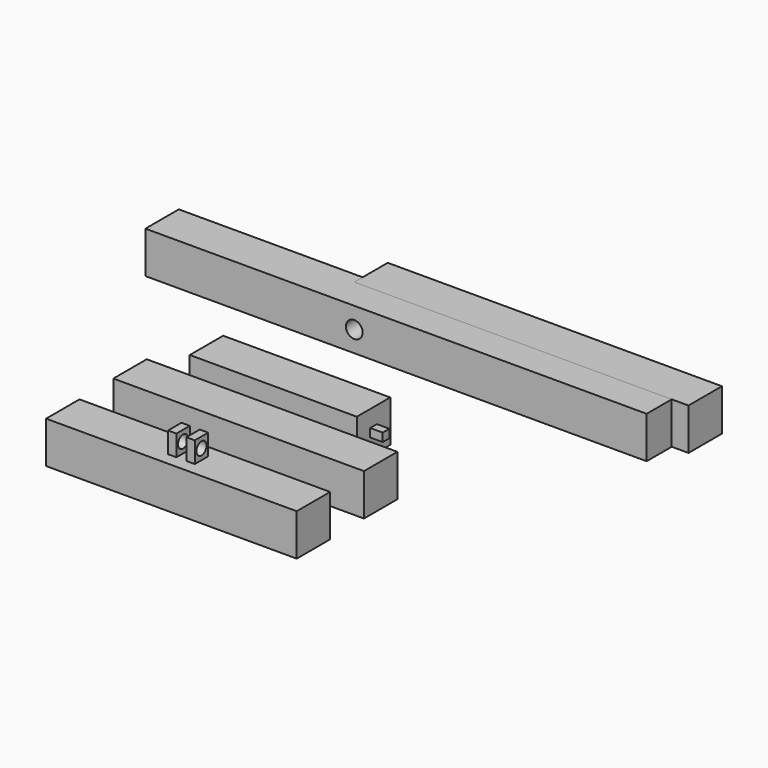
from build123d import *

# Parameters (mm, degrees)
F0_W      = 152.4
F0_H      = 12.7
F1_DEPTH  = 12.7
F2_W      = 76.2
F2_H      = 12.7
F3_DEPTH  = 12.7
F4_W      = 101.6
F4_H      = 12.7
F6_DEPTH  = 12.7
F5_W      = 50.8
F5_H      = 12.7
F8_D      = 5.08
F9_W      = 2.54
F9_H      = 2.54
F10_DEPTH = 3.81
F11_W     = 3.048
F11_H     = 3.048
F12_DEPTH = 6.477
F13_DEPTH = 6.477
F14_DEPTH = 6.477
F15_W     = 76.2
F15_H     = 12.7
F16_DEPTH = 12.7
F17_W     = 2.54
F17_H     = 5.08
F18_DEPTH = 6.35
F19_DEPTH = 6.35
F20_R     = 1.905
F21_DEPTH = 10.668


with BuildPart() as f1:
    # F0 (on Top) → F1 (new body)
    with BuildSketch(Plane.XY):
        with Locations((10.2690905333, 41.4107435818)):
            Rectangle(F0_W, F0_H)
    extrude(amount=F1_DEPTH)

    # F8 (through all)
    with Locations(Plane.XZ.offset(-35.0607435818)):
        with Locations((-2.4309094667, 6.35)):
            Hole(F8_D / 2)

    # F11 (on face) → F12 (cut)
    with BuildSketch(Plane.XY):
        with Locations((-21.4809094667, 41.4107435818)):
            Rectangle(F11_W, F11_H)
    extrude(amount=F12_DEPTH, mode=Mode.SUBTRACT)

    # F11 (on face) → F13 (cut)
    with BuildSketch(Plane.XY):
        with Locations((-15.1309094667, 41.4107435818)):
            Rectangle(F11_W, F11_H)
    extrude(amount=F13_DEPTH, mode=Mode.SUBTRACT)

    # F11 (on face) → F14 (cut)
    with BuildSketch(Plane.XY):
        with Locations((-27.8309094667, 41.4107435818)):
            Rectangle(F11_W, F11_H)
    extrude(amount=F14_DEPTH, mode=Mode.SUBTRACT)


with BuildPart() as f3:
    # F2 (on Top) → F3 (new body)
    with BuildSketch(Plane.XY):
        with Locations((14.3660753965, -23.5283830105)):
            Rectangle(F2_W, F2_H)
    extrude(amount=F3_DEPTH)


with BuildPart() as f6:
    # F4 (on Top) → F6 (new body)
    with BuildSketch(Plane.XY):
        with Locations((40.7652929425, 50.9374617809)):
            Rectangle(F4_W, F4_H)
    extrude(amount=F6_DEPTH)


with BuildPart() as f6b:
    # F5 (on Top) → F6, piece 2 (new body)
    with BuildSketch(Plane.XY):
        with Locations((8.2757057786, -2.7452047178)):
            Rectangle(F5_W, F5_H)
    extrude(amount=F6_DEPTH)

    # F9 (on face) → F10 (join)
    with BuildSketch(Plane.YZ.offset(33.6757057786)):
        with Locations((-2.7452047178, 6.35)):
            Rectangle(F9_W, F9_H)
    extrude(amount=F10_DEPTH)


with BuildPart() as f16:
    # F15 (on Top) → F16 (new body)
    with BuildSketch(Plane.XY):
        with Locations((14.7796703373, -49.5983362198)):
            Rectangle(F15_W, F15_H)
    extrude(amount=F16_DEPTH)

    # F17 (on face) → F18 (join)
    with BuildSketch(Plane.XY.offset(12.7)):
        with Locations((11.9856703373, -49.5983362198)):
            Rectangle(F17_W, F17_H)
    extrude(amount=F18_DEPTH)

    # F17 (on face) → F19 (join)
    with BuildSketch(Plane.XY.offset(12.7)):
        with Locations((17.5736703373, -49.5983362198)):
            Rectangle(F17_W, F17_H)
    extrude(amount=F19_DEPTH)

    # F20 (on face) → F21 (cut)
    with BuildSketch(Plane(origin=(10.7156703373, 0, 0), x_dir=(0, -1, 0), z_dir=(-1, 0, 0))):
        with Locations((49.5983362198, 15.875)):
            Circle(F20_R)
        with Locations((49.5983362198, 15.875)):
            Circle(F20_R)
    extrude(amount=-F21_DEPTH, mode=Mode.SUBTRACT)


solid = Compound([f1.part, f3.part, f6.part, f6b.part, f16.part])
